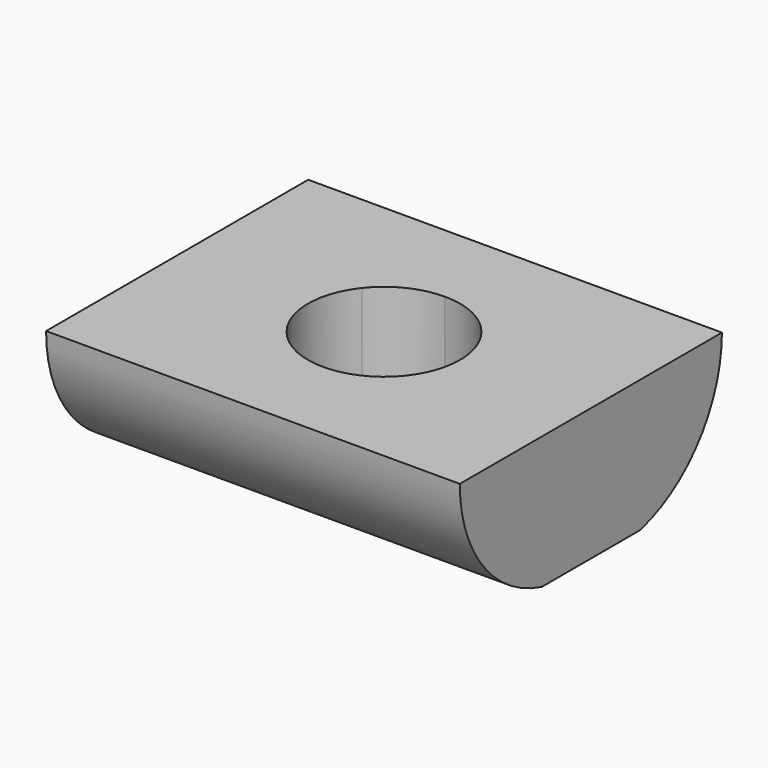
from build123d import *

# Parameters (mm, degrees)
F1_DEPTH = 12.5
F3_DEPTH = 4
F4_ANGLE = 90


with BuildPart() as f1:
    # F0 (on Top) → F1 (new body)
    with BuildSketch(Plane.XY):
        with BuildLine():
            Line((2, -4.95), (2, 4.95))
            ThreePointArc((2, 4.95), (-0.5303161858, 4.0842789494), (-2, 1.85))
            Line((-2, 1.85), (-2, -1.85))
            ThreePointArc((-2, -1.85), (-0.5303161858, -4.0842789494), (2, -4.95))
        make_face()
    extrude(amount=F1_DEPTH)

    # F2 (on face) → F3 (cut)
    with BuildSketch(Plane.YZ.offset(2)):
        with BuildLine():
            Line((0, 6.25), (-1.4279861962, 4.4469871261))
            ThreePointArc((-1.4279861962, 4.4469871261), (0, 3.95), (1.4279861962, 4.4469871261))
            Line((1.4279861962, 4.4469871261), (0, 6.25))
        make_face()
        with BuildLine():
            Line((1.4279861962, 8.0530128739), (0, 6.25))
            Line((0, 6.25), (1.4279861962, 4.4469871261))
            ThreePointArc((1.4279861962, 4.4469871261), (2.0705516476, 5.2485930525), (2.3, 6.25))
            ThreePointArc((2.3, 6.25), (2.0705516476, 7.2514069475), (1.4279861962, 8.0530128739))
        make_face()
        with BuildLine():
            Line((-1.4279861962, 8.0530128739), (0, 6.25))
            Line((0, 6.25), (1.4279861962, 8.0530128739))
            ThreePointArc((1.4279861962, 8.0530128739), (0, 8.55), (-1.4279861962, 8.0530128739))
        make_face()
        with BuildLine():
            ThreePointArc((-1.4279861962, 8.0530128739), (-2.3, 6.25), (-1.4279861962, 4.4469871261))
            Line((-1.4279861962, 4.4469871261), (0, 6.25))
            Line((0, 6.25), (-1.4279861962, 8.0530128739))
        make_face()
    extrude(amount=-F3_DEPTH, mode=Mode.SUBTRACT)


with BuildPart() as f1_1:
    # F4: moved
    add(f1.part.rotate(Axis((2, 0, 0), (0, -1, 0)), F4_ANGLE))


solid = f1_1.part
